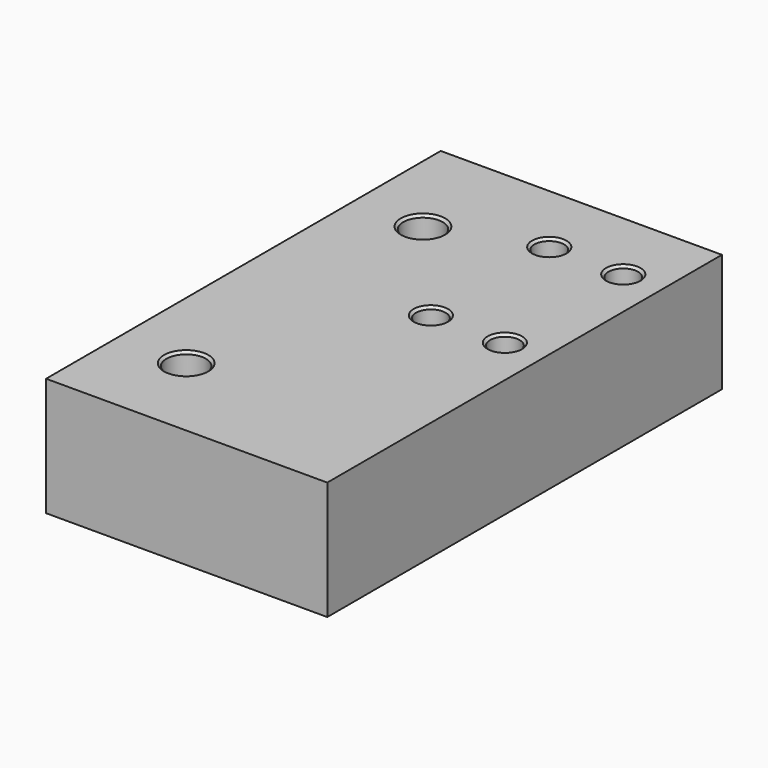
from build123d import *

# Parameters (mm, degrees)
F0_W     = 100
F0_H     = 24
F1_DEPTH = 22
F2_R     = 4
F3_DEPTH = 24.001
F4_SIZE  = 0.5
F5_W     = 100
F5_H     = 24
F6_DEPTH = 35
F7_R     = 3
F8_DEPTH = 24.001
F9_SIZE  = 0.5


with BuildPart() as f1:
    # F0 (on Right) → F1 (new body)
    with BuildSketch(Plane.YZ):
        Rectangle(F0_W, F0_H)
    extrude(amount=-F1_DEPTH)

    # F2 (on face) → F3 (cut, through all)
    with BuildSketch(Plane.XY.offset(12)):
        with Locations((-8, 28)):
            Circle(F2_R)
        with Locations((-8, -32)):
            Circle(F2_R)
    extrude(amount=-F3_DEPTH, mode=Mode.SUBTRACT)

    # F4
    f4_edges = [f1.edges().sort_by_distance(p)[0] for p in [
        (-12, 28, 12),
        (-4, 28, 0),
        (-12, 28, -12),
        (-12, -32, 12),
        (-4, -32, 0),
        (-12, -32, -12),
    ]]
    chamfer(f4_edges, length=F4_SIZE)

    # F5 (on face) → F6 (join)
    with BuildSketch(Plane.YZ):
        Rectangle(F5_W, F5_H)
    extrude(amount=F6_DEPTH)

    # F7 (on face) → F8 (cut, through all)
    with BuildSketch(Plane.XY.offset(12)):
        with Locations((27, 5)):
            Circle(F7_R)
        with Locations((27, 35)):
            Circle(F7_R)
        with Locations((12, 35)):
            Circle(F7_R)
        with Locations((12, 5)):
            Circle(F7_R)
    extrude(amount=-F8_DEPTH, mode=Mode.SUBTRACT)

    # F9
    f9_edges = [f1.edges().sort_by_distance(p)[0] for p in [
        (24, 5, 12),
        (30, 5, 0),
        (24, 5, -12),
        (24, 35, 12),
        (30, 35, 0),
        (24, 35, -12),
        (9, 35, 12),
        (15, 35, 0),
        (9, 35, -12),
        (9, 5, 12),
        (15, 5, 0),
        (9, 5, -12),
    ]]
    chamfer(f9_edges, length=F9_SIZE)


solid = f1.part
